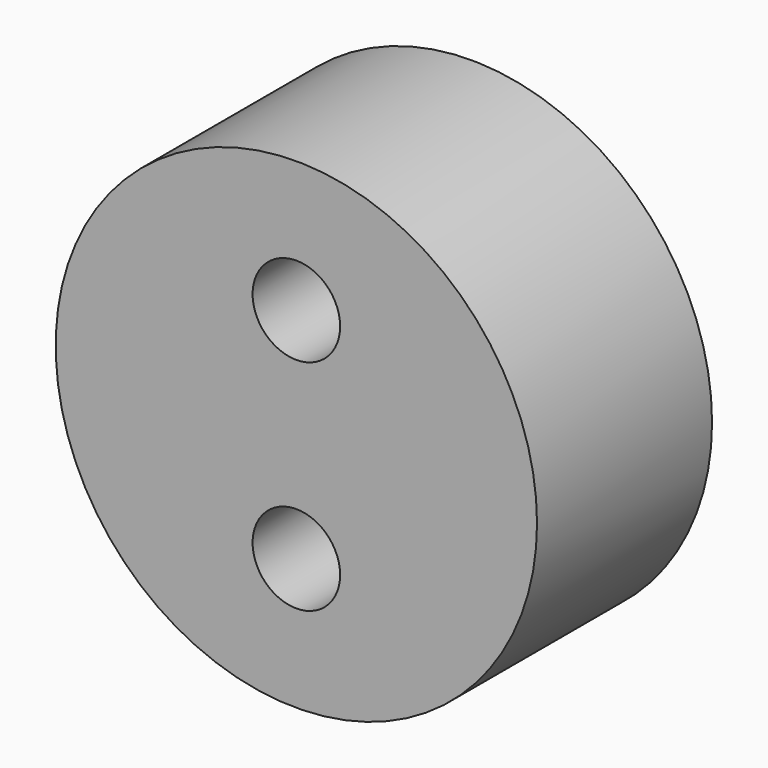
from build123d import *

# Parameters (mm, degrees)
F0_R     = 11
F1_DEPTH = 10
F2_R     = 2
F3_DEPTH = 10.001


with BuildPart() as f1:
    # F0 (on Front) → F1 (new body)
    with BuildSketch(Plane.XZ):
        Circle(F0_R)
    extrude(amount=F1_DEPTH)

    # F2 (on face) → F3 (cut, through all)
    with BuildSketch(Plane.XZ.offset(10)):
        with Locations((0, 5)):
            Circle(F2_R)
        with Locations((0, -5)):
            Circle(F2_R)
    extrude(amount=-F3_DEPTH, mode=Mode.SUBTRACT)


solid = f1.part
